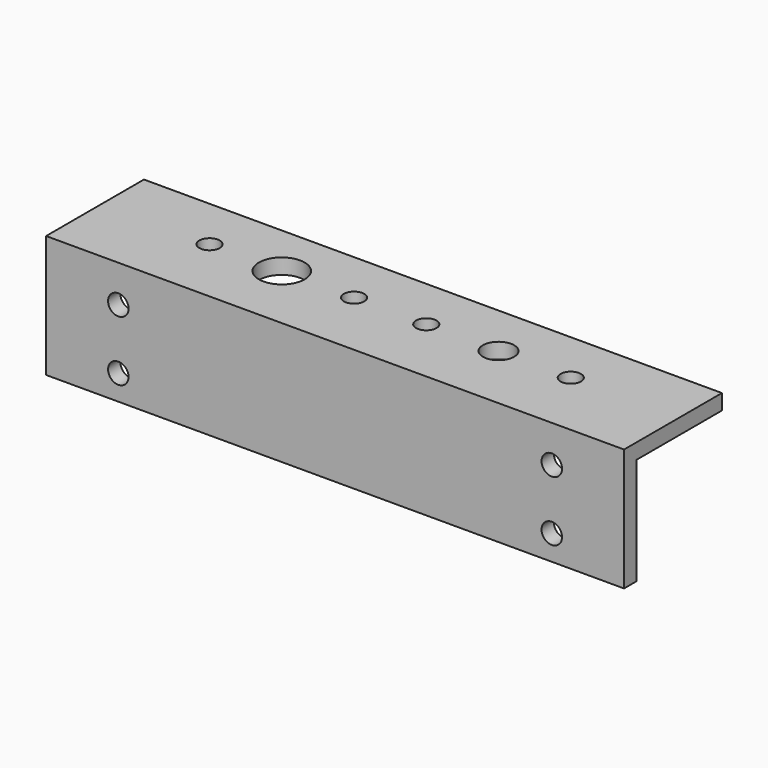
from build123d import *

# Parameters (mm, degrees)
F1_DEPTH = 82.5
F2_R     = 2.125
F2_W     = 45
F2_H     = 25.4
F3_DEPTH = 25.401
F4_R     = 3.25
F4_R_2   = 4.75
F4_R_3   = 2.125
F5_DEPTH = 5


with BuildPart() as f1:
    # F0 (on Right) → F1 (new body, symmetric)
    with BuildSketch(Plane.YZ):
        Polygon((-3.2, -25.4), (0, -25.4), (0, -3.2), (22.2, -3.2), (22.2, 0), (-3.2, 0), align=None)
    extrude(amount=F1_DEPTH, both=True)

    # F2 (on face) → F3 (cut, through all)
    with BuildSketch(Plane.XZ.offset(3.2)):
        with Locations((-67.5, -20.2)):
            Circle(F2_R)
        with Locations((-67.5, -7.7)):
            Circle(F2_R)
        with Locations((22.5, -7.7)):
            Circle(F2_R)
        with Locations((22.5, -20.2)):
            Circle(F2_R)
        with Locations((60, -12.7)):
            Rectangle(F2_W, F2_H)
    extrude(amount=-F3_DEPTH, mode=Mode.SUBTRACT)

    # F4 (on face) → F5 (cut)
    with BuildSketch(Plane.XY):
        with Locations((0, 11.1)):
            Circle(F4_R)
        with Locations((-45, 11.1)):
            Circle(F4_R_2)
        with Locations((-60, 11.1)):
            Circle(F4_R_3)
        with Locations((-30, 11.1)):
            Circle(F4_R_3)
        with Locations((-15, 11.1)):
            Circle(F4_R_3)
        with Locations((15, 11.1)):
            Circle(F4_R_3)
    extrude(amount=-F5_DEPTH, mode=Mode.SUBTRACT)


solid = f1.part
